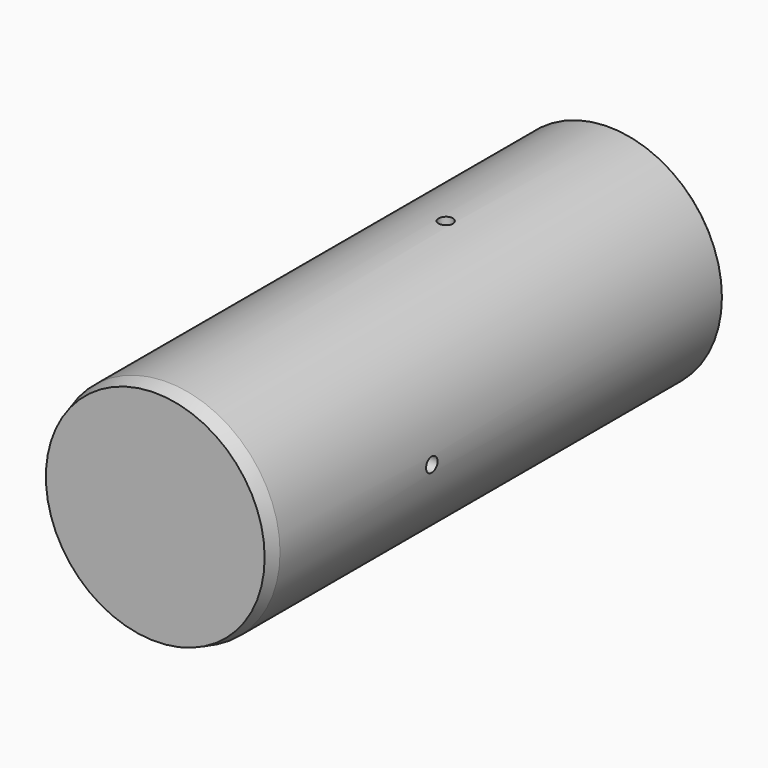
from build123d import *

# Parameters (mm, degrees)
F0_R           = 49.9237
F1_DEPTH       = 250.825
F2_SIZE2       = 1.7014773719
F2_SIZE        = 6.35
F4_D           = 6.35
F4_DEPTH       = 158.75
F4_CBORE_D     = 34.925
F4_CBORE_DEPTH = 4.7625
F4_TIP         = 1.9077324654
F5_R           = 3.175
F6_DEPTH       = 49.9247
F6_DEPTH_BACK  = 49.9247
F7_R           = 3.175
F8_DEPTH       = 49.9247001
F8_DEPTH_BACK  = 49.9247001
F9_SIZE        = 1


with BuildPart() as f1:
    # F0 (on Front) → F1 (new body)
    with BuildSketch(Plane.XZ):
        Circle(F0_R)
    extrude(amount=F1_DEPTH)

    # F2
    f2_edges = [f1.edges().sort_by_distance(p)[0] for p in [
        (-49.9237, -250.825, 0),
    ]]
    f2_side = f1.faces().sort_by_distance((-49.9237, -125.4125, 0))[0]
    chamfer(f2_edges, length=F2_SIZE, length2=F2_SIZE2, reference=f2_side)

    # F4
    with Locations(Plane(origin=(0, 0, 0), x_dir=(1, 0, 0), z_dir=(0, 1, 0))):
        with Locations((0, 0)):
            CounterBoreHole(F4_D / 2, F4_CBORE_D / 2, F4_CBORE_DEPTH, depth=F4_DEPTH)
            with Locations((0, 0, -(F4_DEPTH + F4_TIP / 2))):  # 118° drill point
                Cone(0, F4_D / 2, F4_TIP, mode=Mode.SUBTRACT)

    # F5 (on Right) → F6 (cut, two sides)
    with BuildSketch(Plane.YZ) as f6_sk:
        with Locations((-160.825, 0)):
            Circle(F5_R)
    extrude(amount=-F6_DEPTH, mode=Mode.SUBTRACT)
    extrude(f6_sk.sketch, amount=F6_DEPTH_BACK, mode=Mode.SUBTRACT)

    # F7 (on Top) → F8 (cut, two sides)
    with BuildSketch(Plane.XY) as f8_sk:
        with Locations((0, -90.825)):
            Circle(F7_R)
    extrude(amount=-F8_DEPTH, mode=Mode.SUBTRACT)
    extrude(f8_sk.sketch, amount=F8_DEPTH_BACK, mode=Mode.SUBTRACT)

    # F9
    f9_edges = [f1.edges().sort_by_distance(p)[0] for p in [
        (-49.9237, 0, 0),
    ]]
    chamfer(f9_edges, length=F9_SIZE)


solid = f1.part
